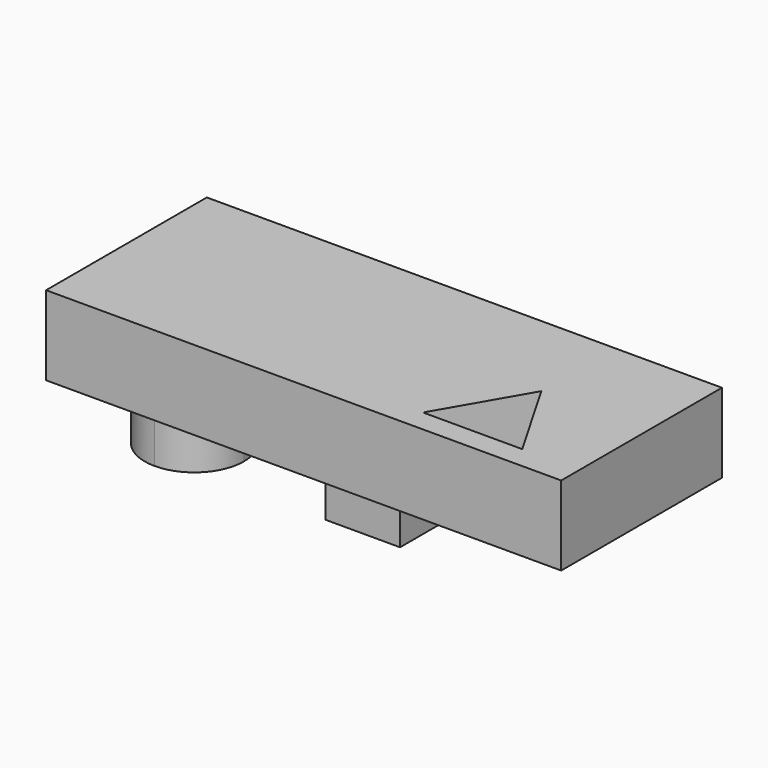
from build123d import *

# Parameters (mm, degrees)
F1_W     = 131.9631
F1_H     = 51.463606
F2_DEPTH = 20.32
F3_DEPTH = 20.32
F4_DEPTH = 57.15


with BuildPart() as f2:
    # F1 (on Top) → F2 (new body)
    with BuildSketch(Plane.XY):
        with Locations((-32.353217, -2.002475)):
            Rectangle(F1_W, F1_H)
    extrude(amount=F2_DEPTH)

    # F0 (on Top) → F3 (join)
    with BuildSketch(Plane.XY):
        with BuildLine():
            ThreePointArc((-69.85, 0), (-91.530256, 8.980256), (-82.55, -12.7))
            ThreePointArc((-82.55, -12.7), (-73.569744, -8.980256), (-69.85, 0))
        make_face()
        Polygon((-41.275, -9.525), (-31.75, -9.525), (-22.225, -9.525), (-22.225, 9.525), (-41.275, 9.525), align=None)
    extrude(amount=-F3_DEPTH)

    # F0 (on Top) → F4 (cut)
    with BuildSketch(Plane.XY):
        Polygon((19.05, -21.997045), (6.35, 0), (-6.35, -21.997045), align=None)
    extrude(amount=F4_DEPTH, mode=Mode.SUBTRACT)


solid = f2.part
